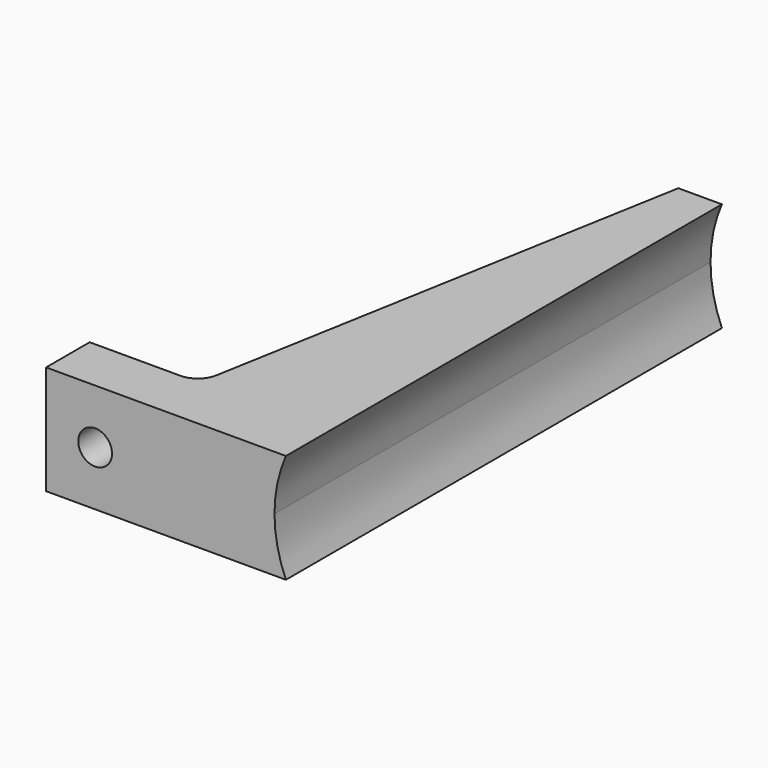
from build123d import *

# Parameters (mm, degrees)
F1_DEPTH = 10
F3_DEPTH = 50.001
F5_D     = 3.1
F6_R     = 2


with BuildPart() as f1:
    # F0 (on Top) → F1 (new body)
    with BuildSketch(Plane.XY):
        Polygon((0, 5), (0, 0), (22, 0), (22, 50), (18, 50), (10, 5), align=None)
    extrude(amount=F1_DEPTH)

    # F2 (on face) → F3 (cut, through all)
    with BuildSketch(Plane(origin=(0, 50, 0), x_dir=(-1, 0, 0), z_dir=(0, 1, 0))):
        with BuildLine():
            Line((-22, 0), (-22, 10))
            ThreePointArc((-22, 10), (-45.956439, 5), (-22, 0))
        make_face()
        with BuildLine():
            ThreePointArc((-22, 0), (-21.22011, 2.446129), (-20.956439, 5))
            ThreePointArc((-20.956439, 5), (-21.22011, 7.553871), (-22, 10))
            Line((-22, 10), (-22, 0))
        make_face()
    extrude(amount=-F3_DEPTH, mode=Mode.SUBTRACT)

    # F5 (through all)
    with Locations(Plane(origin=(0, 5, 0), x_dir=(-1, 0, 0), z_dir=(0, 1, 0))):
        with Locations((-4.5, 5)):
            Hole(F5_D / 2)

    # F6
    f6_edges = [f1.edges().sort_by_distance(p)[0] for p in [
        (10, 5, 5),
    ]]
    fillet(f6_edges, radius=F6_R)


solid = f1.part
